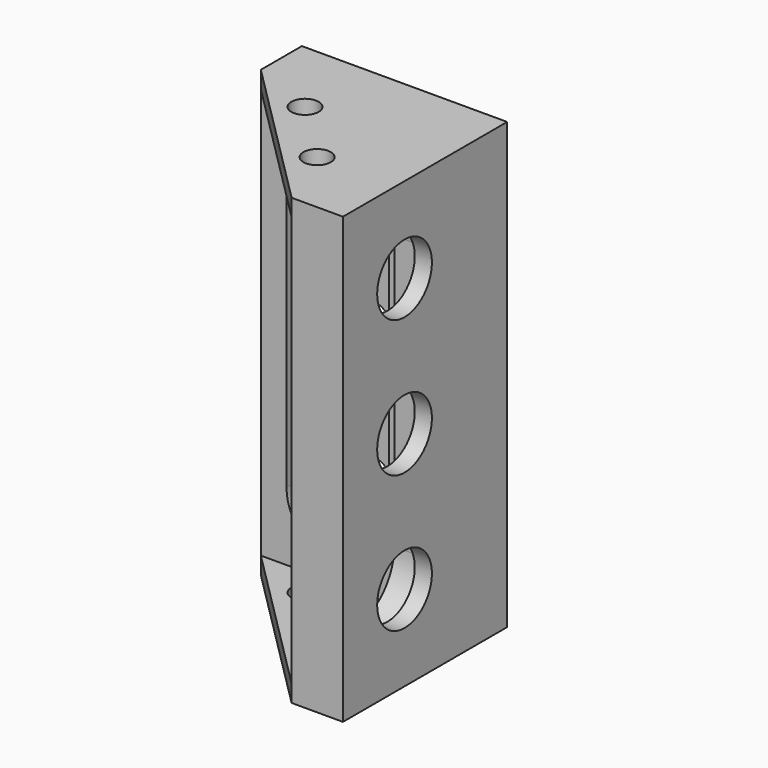
from build123d import *

# Parameters (mm, degrees)
F1_DEPTH  = 130
F3_DEPTH  = 125
F6_DEPTH  = 10
F7_DEPTH  = 10
F9_DEPTH  = 5
F10_R     = 10
F11_DEPTH = 5.001
F12_R     = 10
F13_DEPTH = 5.001
F14_R     = 4
F15_DEPTH = 130.001
F16_ANGLE = 180


with BuildPart() as f1:
    # F0 (on Top) → F1 (new body)
    with BuildSketch(Plane.XY):
        Polygon((0, 60), (0, 0), (60, 0), (60, 15), (15, 60), align=None)
    extrude(amount=F1_DEPTH)

    # F2 (on face) → F3 (cut)
    with BuildSketch(Plane.XY.offset(130)):
        Polygon((15, 15), (60, 15), (15, 60), align=None)
    extrude(amount=-F3_DEPTH, mode=Mode.SUBTRACT)

    # F5 (on face) → F6 (cut)
    with BuildSketch(Plane.YZ.offset(15)):
        with BuildLine():
            Line((52.5, 25), (52.5, 105))
            ThreePointArc((52.5, 105), (37.5, 120), (22.5, 105))
            Line((22.5, 105), (22.5, 25))
            ThreePointArc((22.5, 25), (37.5, 10), (52.5, 25))
        make_face()
    extrude(amount=-F6_DEPTH, mode=Mode.SUBTRACT)

    # F4 (on face) → F7 (cut)
    with BuildSketch(Plane(origin=(0, 15, 0), x_dir=(-1, 0, 0), z_dir=(0, 1, 0))):
        with BuildLine():
            Line((-22.5, 25), (-22.5, 105))
            ThreePointArc((-22.5, 105), (-37.5, 120), (-52.5, 105))
            Line((-52.5, 105), (-52.5, 25))
            ThreePointArc((-52.5, 25), (-37.5, 10), (-22.5, 25))
        make_face()
    extrude(amount=-F7_DEPTH, mode=Mode.SUBTRACT)

    # F8 (on face) → F9 (join)
    with BuildSketch(Plane.XY.offset(130)):
        Polygon((15, 15), (60, 15), (15, 60), align=None)
    extrude(amount=-F9_DEPTH)

    # F10 (on face) → F11 (cut, through all)
    with BuildSketch(Plane(origin=(0, 5, 0), x_dir=(-1, 0, 0), z_dir=(0, 1, 0))):
        with Locations((-37.5, 105)):
            Circle(F10_R)
        with Locations((-37.5, 65)):
            Circle(F10_R)
        with Locations((-37.5, 25)):
            Circle(F10_R)
    extrude(amount=-F11_DEPTH, mode=Mode.SUBTRACT)

    # F12 (on face) → F13 (cut, through all)
    with BuildSketch(Plane.YZ.offset(5)):
        with Locations((37.5, 105)):
            Circle(F12_R)
        with Locations((37.5, 65)):
            Circle(F12_R)
        with Locations((37.5, 25)):
            Circle(F12_R)
    extrude(amount=-F13_DEPTH, mode=Mode.SUBTRACT)

    # F14 (on face) → F15 (cut, through all)
    with BuildSketch(Plane.XY.offset(130)):
        with Locations((40.686292, 23)):
            Circle(F14_R)
        with Locations((23, 40.686292)):
            Circle(F14_R)
    extrude(amount=-F15_DEPTH, mode=Mode.SUBTRACT)


with BuildPart() as f1_1:
    # F16: moved
    add(f1.part.rotate(Axis((0, 0, 65), (0, 0, 1)), F16_ANGLE))


solid = f1_1.part
